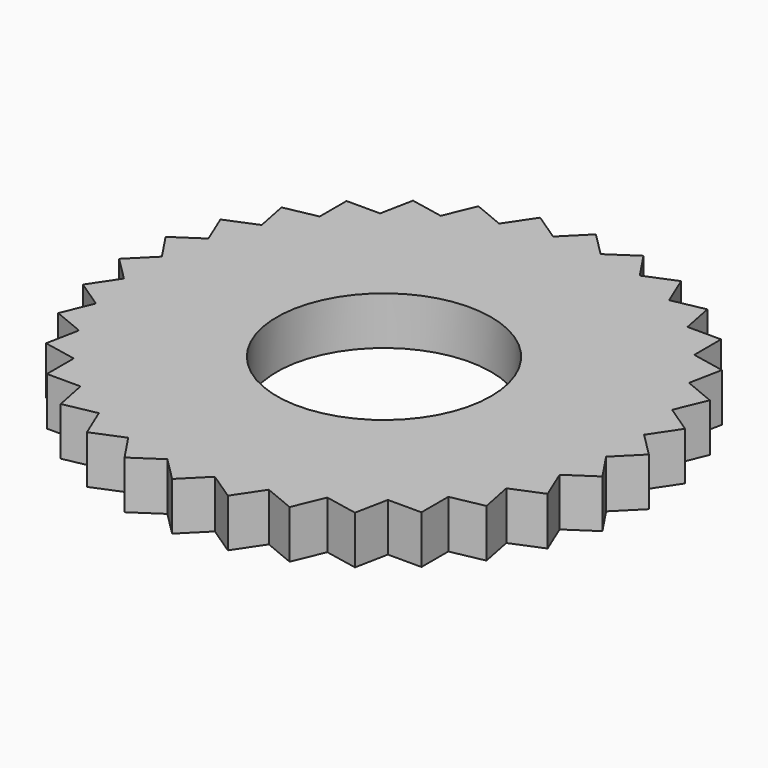
from build123d import *

# Parameters (mm, degrees)
F0_R     = 11.125
F1_DEPTH = 5


with BuildPart() as f1:
    # F0 (on Top) → F1 (new body)
    with BuildSketch(Plane.XY):
        Polygon((25.034333, -2.465667), (27.5, 0), (25.034333, 2.465667), (26.971595, 5.364984), (24.072278, 7.302246), (25.406687, 10.523794), (22.185138, 11.858204), (22.865414, 15.278181), (19.445436, 15.958457), (19.445436, 19.445436), (15.958457, 19.445436), (15.278181, 22.865414), (11.858204, 22.185138), (10.523794, 25.406687), (7.302246, 24.072278), (5.364984, 26.971595), (2.465667, 25.034333), (0, 27.5), (-2.465667, 25.034333), (-5.364984, 26.971595), (-7.302246, 24.072278), (-10.523794, 25.406687), (-11.858204, 22.185138), (-15.278181, 22.865414), (-15.958457, 19.445436), (-19.445436, 19.445436), (-19.445436, 15.958457), (-22.865414, 15.278181), (-22.185138, 11.858204), (-25.406687, 10.523794), (-24.072278, 7.302246), (-26.971595, 5.364984), (-25.034333, 2.465667), (-27.5, 0), (-25.034333, -2.465667), (-26.971595, -5.364984), (-24.072278, -7.302246), (-25.406687, -10.523794), (-22.185138, -11.858204), (-22.865414, -15.278181), (-19.445436, -15.958457), (-19.445436, -19.445436), (-15.958457, -19.445436), (-15.278181, -22.865414), (-11.858204, -22.185138), (-10.523794, -25.406687), (-7.302246, -24.072278), (-5.364984, -26.971595), (-2.465667, -25.034333), (0, -27.5), (2.465667, -25.034333), (5.364984, -26.971595), (7.302246, -24.072278), (10.523794, -25.406687), (11.858204, -22.185138), (15.278181, -22.865414), (15.958457, -19.445436), (19.445436, -19.445436), (19.445436, -15.958457), (22.865414, -15.278181), (22.185138, -11.858204), (25.406687, -10.523794), (24.072278, -7.302246), (26.971595, -5.364984), align=None)
        Circle(F0_R, mode=Mode.SUBTRACT)
    extrude(amount=F1_DEPTH)


solid = f1.part
